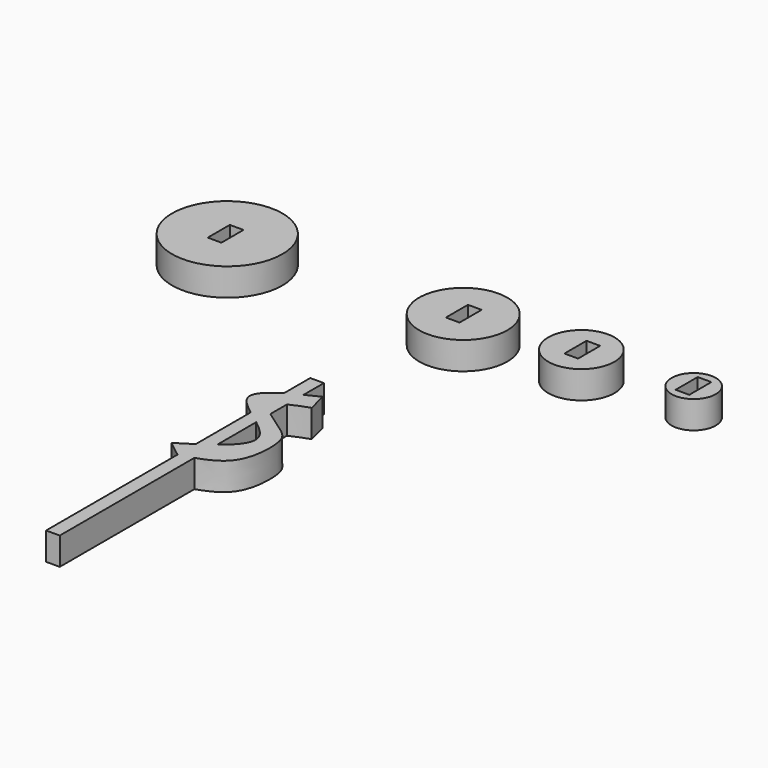
from build123d import *

# Parameters (mm, degrees)
F0_R     = 12.7
F1_DEPTH = 6.35
F0_R_2   = 10.16
F0_R_3   = 7.62
F0_R_4   = 5.08
F3_DEPTH = 6.35
F6_W     = 3.1496
F6_H     = 6.35
F5_W     = 3.1496
F5_H     = 6.35
F4_W     = 3.1496
F4_H     = 6.35
F8_DEPTH = 25.4
F7_W     = 3.1496
F7_H     = 6.35
F9_DEPTH = 6.35


with BuildPart() as f1:
    # F0 (on Top) → F1 (new body)
    with BuildSketch(Plane.XY):
        with Locations((-62.6475140452, 47.4418066442)):
            Circle(F0_R)
    extrude(amount=F1_DEPTH)

    # F7 (on face) → F9 (cut)
    with BuildSketch(Plane.XY.offset(6.35)):
        with Locations((-62.8639711767, 47.2454865665)):
            Rectangle(F7_W, F7_H)
    extrude(amount=-F9_DEPTH, mode=Mode.SUBTRACT)


with BuildPart() as f1b:
    # F0 (on Top) → F1, piece 2 (new body)
    with BuildSketch(Plane.XY):
        with Locations((-10.0357653573, 49.5706051588)):
            Circle(F0_R_2)
    extrude(amount=F1_DEPTH)


with BuildPart() as f1c:
    # F0 (on Top) → F1, piece 3 (new body)
    with BuildSketch(Plane.XY):
        with Locations((15.205710195, 52.0035177469)):
            Circle(F0_R_3)
    extrude(amount=F1_DEPTH)


with BuildPart() as f1d:
    # F0 (on Top) → F1, piece 4 (new body)
    with BuildSketch(Plane.XY):
        with Locations((39.8389585316, 53.5240918398)):
            Circle(F0_R_4)
    extrude(amount=F1_DEPTH)


with BuildPart() as f3:
    # F2 (on Top) → F3 (new body)
    with BuildSketch(Plane.XY):
        with BuildLine():
            Line((-8.4678437561, 4.0186406113), (-9.6160257235, 8.6113698781))
            add(Edge.make_bspline(
                [(-9.6160257235, 8.6113698781), (-10.6833861015, 8.0923795797), (-11.7507464795, 7.5733892813), (-12.7735268325, 7.0519943274)],
                knots=[0, 0, 0, 0, 0.0596427417, 0.0596427417, 0.0596427417, 0.0596427417], degree=3))
            Line((-12.7735268325, 7.0519943274), (-12.7735268325, 2.2706629447))
            add(Edge.make_bspline(
                [(-8.4678437561, 4.0186406113), (-10.0301890443, 3.4535009748), (-11.5925343326, 2.8883613382), (-12.7735268325, 2.2706629447)],
                knots=[0, 0, 0, 0, 0.0902645739, 0.0902645739, 0.0902645739, 0.0902645739], degree=3))
        make_face()
        with BuildLine():
            Line((-12.7735268325, 2.2706629447), (-12.7735268325, 7.0519943274))
            add(Edge.make_bspline(
                [(-12.7735268325, 7.0519943274), (-13.8968574684, 6.4793406551), (-14.9664118237, 5.9037862795), (-15.9231268325, 5.322145327)],
                knots=[0.0596427417, 0.0596427417, 0.0596427417, 0.0596427417, 0.1251490049, 0.1251490049, 0.1251490049, 0.1251490049], degree=3))
            Line((-15.9231268325, 5.322145327), (-15.9231268325, -4.2120677647))
            add(Edge.make_bspline(
                [(-15.9231268325, -4.2120677647), (-14.8990467489, -4.9823459072), (-13.8006787573, -5.7642644238), (-12.7735268325, -6.5540185516)],
                knots=[0.4529671461, 0.4529671461, 0.4529671461, 0.4529671461, 0.5254439167, 0.5254439167, 0.5254439167, 0.5254439167], degree=3))
            Line((-12.7735268325, -6.5540185516), (-12.7735268325, -2.4823222257))
            add(Edge.make_bspline(
                [(-12.7735268325, 2.2706629447), (-14.0585239476, 1.5985666749), (-15.6198144692, 0.2230887267), (-13.8734685755, -1.6082538799), (-12.7735268325, -2.4823222257)],
                knots=[0.0902645739, 0.0902645739, 0.0902645739, 0.0902645739, 0.1884783365, 0.2742319031, 0.2742319031, 0.2742319031, 0.2742319031], degree=3))
        make_face()
        with BuildLine():
            add(Edge.make_bspline(
                [(-12.7735268325, 7.0519943274), (-13.8968574684, 6.4793406551), (-14.9664118237, 5.9037862795), (-15.9231268325, 5.322145327)],
                knots=[0.0596427417, 0.0596427417, 0.0596427417, 0.0596427417, 0.1251490049, 0.1251490049, 0.1251490049, 0.1251490049], degree=3))
            Line((-12.7735268325, 7.0519943274), (-12.7735268325, 12.9170520231))
            Line((-12.7735268325, 12.9170520231), (-15.9231268325, 12.9170520231))
            Line((-15.9231268325, 12.9170520231), (-15.9231268325, 5.322145327))
        make_face()
        with BuildLine():
            Line((-15.9231268325, -4.2120677647), (-15.9231268325, 5.322145327))
            add(Edge.make_bspline(
                [(-15.9231268325, 5.322145327), (-18.7127559793, 3.6261726085), (-21.8539712965, 0.626605904), (-17.8562527538, -2.7580363192), (-15.9231268325, -4.2120677647)],
                knots=[0.1251490049, 0.1251490049, 0.1251490049, 0.1251490049, 0.3161548732, 0.4529671461, 0.4529671461, 0.4529671461, 0.4529671461], degree=3))
        make_face()
        with BuildLine():
            Line((-12.7735268325, -2.4823222257), (-12.7735268325, 2.2706629447))
            add(Edge.make_bspline(
                [(-12.7735268325, 2.2706629447), (-14.0585239476, 1.5985666749), (-15.6198144692, 0.2230887267), (-13.8734685755, -1.6082538799), (-12.7735268325, -2.4823222257)],
                knots=[0.0902645739, 0.0902645739, 0.0902645739, 0.0902645739, 0.1884783365, 0.2742319031, 0.2742319031, 0.2742319031, 0.2742319031], degree=3))
        make_face()
        with BuildLine():
            add(Edge.make_bspline(
                [(-15.9231268325, -4.2120677647), (-14.8990467489, -4.9823459072), (-13.8006787573, -5.7642644238), (-12.7735268325, -6.5540185516)],
                knots=[0.4529671461, 0.4529671461, 0.4529671461, 0.4529671461, 0.5254439167, 0.5254439167, 0.5254439167, 0.5254439167], degree=3))
            Line((-15.9231268325, -4.2120677647), (-15.9231268325, -20.0129056802))
            add(Edge.make_bspline(
                [(-12.7735268325, -17.7878302714), (-13.7289668672, -18.5292595993), (-14.7969822386, -19.2710018497), (-15.9231268325, -20.0129056802)],
                knots=[0.8627224699, 0.8627224699, 0.8627224699, 0.8627224699, 0.9291155922, 0.9291155922, 0.9291155922, 0.9291155922], degree=3))
            Line((-12.7735268325, -17.7878302714), (-12.7735268325, -6.5540185516))
        make_face()
        with BuildLine():
            add(Edge.make_bspline(
                [(-12.7735268325, -2.4823222257), (-11.1105625055, -3.8037962834), (-6.0358747691, -6.8009672669), (-4.2131061277, -10.181759533), (-4.7281423763, -20.9130313984), (-10.1853378038, -23.4981717336), (-12.7735268325, -24.3405292915)],
                knots=[0.2742319031, 0.2742319031, 0.2742319031, 0.2742319031, 0.4038797896, 0.5582503774, 0.7751222544, 0.9362031982, 0.9362031982, 0.9362031982, 0.9362031982], degree=3))
            Line((-12.7735268325, -2.4823222257), (-12.7735268325, -6.5540185516))
            add(Edge.make_bspline(
                [(-12.7735268325, -6.5540185516), (-10.9097520325, -7.9870332847), (-6.7311376186, -11.7284041807), (-9.8123788727, -15.4899550915), (-12.7735268325, -17.7878302714)],
                knots=[0.5254439167, 0.5254439167, 0.5254439167, 0.5254439167, 0.6569535555, 0.8627224699, 0.8627224699, 0.8627224699, 0.8627224699], degree=3))
            Line((-12.7735268325, -17.7878302714), (-12.7735268325, -24.3405292915))
        make_face()
        with BuildLine():
            Line((-15.9231268325, -25.2578346846), (-15.9231268325, -20.0129056802))
            add(Edge.make_bspline(
                [(-15.9231268325, -20.0129056802), (-17.1254515585, -20.8049969664), (-18.3940360291, -21.5972724329), (-19.6626204997, -22.3895478994)],
                knots=[0.9291155922, 0.9291155922, 0.9291155922, 0.9291155922, 1, 1, 1, 1], degree=3))
            Line((-19.6626204997, -22.3895478994), (-15.9310270101, -25.2600051463))
            add(Edge.make_bspline(
                [(-15.9231268325, -25.2578346846), (-15.9257602246, -25.2585581722), (-15.9283936173, -25.2592816593), (-15.9310270101, -25.2600051463)],
                knots=[0.9998424319, 0.9998424319, 0.9998424319, 0.9998424319, 1, 1, 1, 1], degree=3))
        make_face()
        with BuildLine():
            add(Edge.make_bspline(
                [(-12.7735268325, -17.7878302714), (-13.7289668672, -18.5292595993), (-14.7969822386, -19.2710018497), (-15.9231268325, -20.0129056802)],
                knots=[0.8627224699, 0.8627224699, 0.8627224699, 0.8627224699, 0.9291155922, 0.9291155922, 0.9291155922, 0.9291155922], degree=3))
            Line((-15.9231268325, -20.0129056802), (-15.9231268325, -25.2578346846))
            add(Edge.make_bspline(
                [(-12.7735268325, -24.3405292915), (-13.7960585026, -24.6733246441), (-14.8595420951, -24.9656296668), (-15.9231268325, -25.2578346846)],
                knots=[0.9362031982, 0.9362031982, 0.9362031982, 0.9362031982, 0.9998424319, 0.9998424319, 0.9998424319, 0.9998424319], degree=3))
            Line((-12.7735268325, -24.3405292915), (-12.7735268325, -17.7878302714))
        make_face()
        with BuildLine():
            Line((-12.7735268325, -37.6726218224), (-12.7735268325, -24.3405292915))
            add(Edge.make_bspline(
                [(-12.7735268325, -24.3405292915), (-13.7960585026, -24.6733246441), (-14.8595420951, -24.9656296668), (-15.9231268325, -25.2578346846)],
                knots=[0.9362031982, 0.9362031982, 0.9362031982, 0.9362031982, 0.9998424319, 0.9998424319, 0.9998424319, 0.9998424319], degree=3))
            Line((-15.9231268325, -25.2578346846), (-15.9231268325, -63.0726218224))
            Line((-15.9231268325, -63.0726218224), (-12.7735268325, -63.0726218224))
            Line((-12.7735268325, -63.0726218224), (-12.7735268325, -37.6726218224))
        make_face()
    extrude(amount=F3_DEPTH)


with BuildPart() as f8_tool:
    # F6 (on face) + F5 (on face) + F4 (on face) → F8 (new body)
    with BuildSketch(Plane.XY.offset(6.35)):
        with Locations((-10.0231879159, 49.702028671)):
            Rectangle(F6_W, F6_H)
    with BuildSketch(Plane.XY.offset(6.35)):
        with Locations((15.3658976079, 52.0696741731)):
            Rectangle(F5_W, F5_H)
    with BuildSketch(Plane.XY.offset(6.35)):
        with Locations((39.7791160498, 53.5365851676)):
            Rectangle(F4_W, F4_H)
    extrude(amount=-F8_DEPTH)


with BuildPart() as f1b_1:
    add(f1b.part)

    # F8: cut by f8_tool
    add(f8_tool.part, mode=Mode.SUBTRACT)


with BuildPart() as f1c_1:
    add(f1c.part)

    # F8: cut by f8_tool
    add(f8_tool.part, mode=Mode.SUBTRACT)


with BuildPart() as f1d_1:
    add(f1d.part)

    # F8: cut by f8_tool
    add(f8_tool.part, mode=Mode.SUBTRACT)


solid = Compound([f1.part, f3.part, f1b_1.part, f1c_1.part, f1d_1.part])
